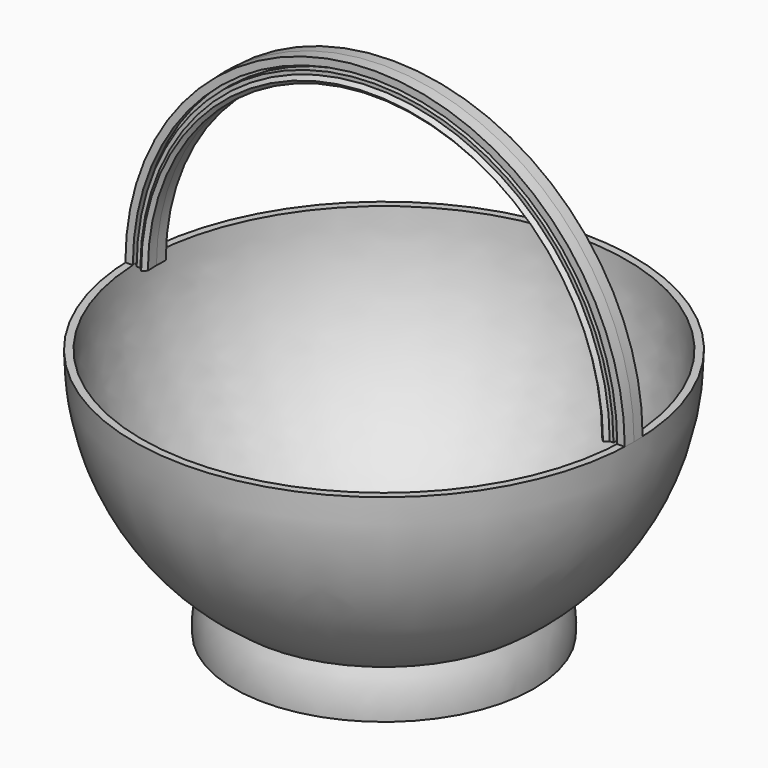
from build123d import *


with BuildPart() as f1:
    # F0 (on Front) → F1 (revolve)
    with BuildSketch(Plane.XZ):
        with BuildLine():
            ThreePointArc((325, 325), (229.809704, 95.190296), (0, 0))
            Line((0, 0), (0, -10))
            ThreePointArc((0, -10), (90.093803, 2.342121), (173.549107, 38.459065))
            ThreePointArc((173.549107, 38.459065), (180.157502, 14.676638), (180.739128, -10))
            Line((180.739128, -10), (200.822991, -10))
            ThreePointArc((200.822991, -10), (199.494309, 20.396306), (190.563698, 49.48144))
            ThreePointArc((190.563698, 49.48144), (296.701735, 169.45875), (335, 325))
            Line((335, 325), (325, 325))
        make_face()
    revolve(axis=Axis((0, 0, 162.5), (0, 0, 1)))


with BuildPart() as f5:
    # F5: sweep along a path in F2
    with BuildLine(Plane.XZ) as f5_path:
        ThreePointArc((335, 325), (0, 660), (-335, 325))
    # F4 (on offset) → F5 (sweep)
    with BuildSketch(Plane.XY.offset(325)):
        Polygon((334.664223, -14.995266), (335.125779, 0), (334.664223, 14.995266), (324.65388, 14.995266), (324.961536, 5), (319.861536, 5), (319.55388, 14.995266), (314.55388, 14.995266), (309.549147, 20), (304.544413, 14.995266), (305.00597, 0), (304.544413, -14.995266), (309.549147, -20), (314.55388, -14.995266), (319.55388, -14.995266), (319.861536, -5), (324.961536, -5), (324.65388, -14.995266), align=None)
    sweep(path=f5_path.line)


solid = Compound([f1.part, f5.part])
